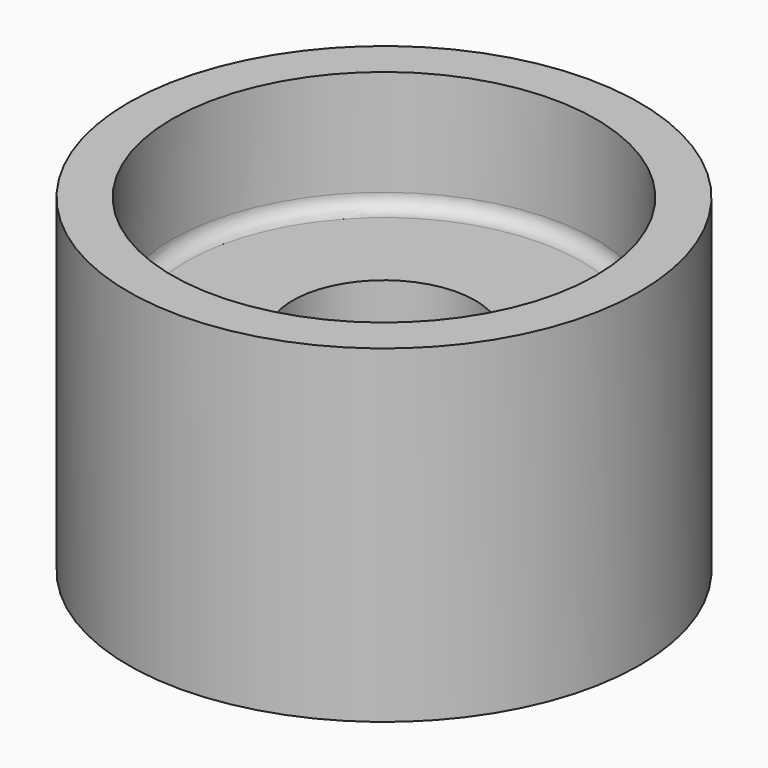
from build123d import *

# Parameters (mm, degrees)
F0_W = 6
F0_H = 45
F2_W = 16.5
F2_H = 12
F4_R = 2


with BuildPart() as f1:
    # F0 (on Front) → F1 (revolve)
    with BuildSketch(Plane.XZ):
        with Locations((32, 0)):
            Rectangle(F0_W, F0_H)
    revolve(axis=Axis((0, 0, 12.074299), (0, 0, -1)))

    # F2 (on Front) → F3 (revolve)
    with BuildSketch(Plane.XZ):
        with Locations((20.75, 0)):
            Rectangle(F2_W, F2_H)
    revolve(axis=Axis((0, 0, 3.15167), (0, 0, -1)))

    # F4
    f4_edges = [f1.edges().sort_by_distance(p)[0] for p in [
        (-29, 0, 6),
        (-29, 0, -6),
    ]]
    fillet(f4_edges, radius=F4_R)


solid = f1.part
